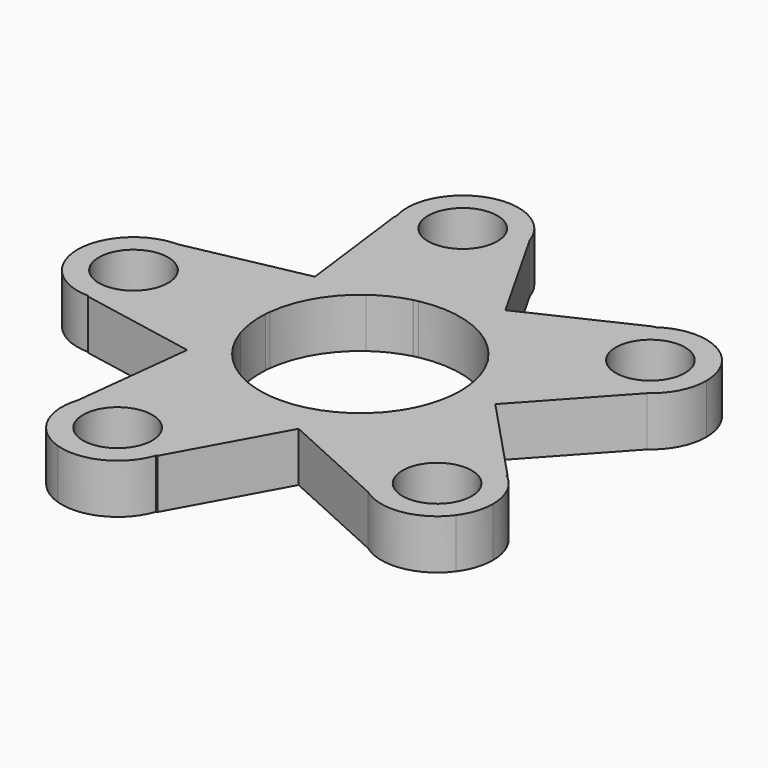
from build123d import *

# Parameters (mm, degrees)
F0_R     = 4.9
F1_DEPTH = 7


with BuildPart() as f1:
    # F0 (on Top) → F1 (new body)
    with BuildSketch(Plane.XY):
        with BuildLine():
            ThreePointArc((14.15, 0), (13.9757900194, -2.2135476803), (13.4574497056, -4.3725904704))
            ThreePointArc((13.4574497056, -4.3725904704), (12.400978844, -6.8145596858), (10.9060417797, -9.0155838801))
            Line((10.9060417797, -9.0155838801), (10.8695159641, -9.0820527185))
            Line((10.8695159641, -9.0820527185), (19.1268249694, -0.0593384625))
            Line((19.1268249694, -0.0593384625), (11.9964105728, 7.5310153528))
            Line((11.9964105728, 7.5310153528), (12.3111266381, 6.9755760265))
            ThreePointArc((12.3111266381, 6.9755760265), (13.6825608336, 3.6069417844), (14.15, 0))
        make_face()
        with BuildLine():
            Line((10.8695159641, -9.0820527185), (10.4385144096, -9.5530056485))
            ThreePointArc((10.4385144096, -9.5530056485), (5.702958446, -12.9498557893), (0, -14.15))
            ThreePointArc((0, -14.15), (-2.6489181852, -13.8998464901), (-5.2041775461, -13.1582307347))
            Line((-5.2041775461, -13.1582307347), (-5.2786802657, -13.1440326205))
            Line((-5.2786802657, -13.1440326205), (5.8540797326, -18.2090281165))
            Line((5.8540797326, -18.2090281165), (10.8695159641, -9.0820527185))
        make_face()
        with BuildLine():
            Line((19.1268249694, -0.0593384625), (10.8695159641, -9.0820527185))
            Line((10.8695159641, -9.0820527185), (5.8540797326, -18.2090281165))
            Line((5.8540797326, -18.2090281165), (21.2854911766, -25.2297515915))
            ThreePointArc((21.2854911766, -25.2297515915), (19.5794245005, -14.1382025948), (30.685746847, -12.531116229))
            Line((30.685746847, -12.531116229), (30.6560666179, -12.3322609697))
            Line((30.6560666179, -12.3322609697), (19.1268249694, -0.0593384625))
        make_face()
        with BuildLine():
            ThreePointArc((8.3171613199, 11.4475904704), (10.3131446045, 9.6882169859), (11.9444820487, 7.5862934684))
            Line((11.9444820487, 7.5862934684), (11.9964105728, 7.5310153528))
            Line((11.9964105728, 7.5310153528), (5.9669481954, 18.1723549299))
            Line((5.9669481954, 18.1723549299), (-3.4553264872, 13.7364761763))
            Line((-3.4553264872, 13.7364761763), (-2.8298212171, 13.8641484369))
            ThreePointArc((-2.8298212171, 13.8641484369), (2.9979432037, 13.8287684393), (8.3171613199, 11.4475904704))
        make_face()
        with BuildLine():
            Line((5.9669481954, 18.1723549299), (11.9964105728, 7.5310153528))
            Line((11.9964105728, 7.5310153528), (19.1268249694, -0.0593384625))
            Line((19.1268249694, -0.0593384625), (30.5724981628, 12.4472830804))
            ThreePointArc((30.5724981628, 12.4472830804), (19.4966046172, 14.2521943848), (21.4002170069, 25.311551623))
            Line((21.4002170069, 25.311551623), (21.2019227215, 25.3447737022))
            Line((21.2019227215, 25.3447737022), (5.9669481954, 18.1723549299))
        make_face()
        with BuildLine():
            Line((-2.2554315903, -32.9665301396), (5.8540797326, -18.2090281165))
            Line((5.8540797326, -18.2090281165), (-5.2786802657, -13.1440326205))
            Line((-5.2786802657, -13.1440326205), (-15.5088047218, -11.1944598156))
            Line((-15.5088047218, -11.1944598156), (-17.4173411484, -28.0401270917))
            ThreePointArc((-17.4173411484, -28.0401270917), (-8.6681623959, -22.6786234566), (-2.0039946697, -30.4813613473))
            ThreePointArc((-2.0039946697, -30.4813613473), (-2.1125879849, -31.7867279132), (-2.4353824853, -33.0562073695))
            Line((-2.4353824853, -33.0562073695), (-2.2554315903, -32.9665301396))
        make_face()
        with BuildLine():
            Line((-3.4553264872, 13.7364761763), (5.9669481954, 18.1723549299))
            Line((5.9669481954, 18.1723549299), (-2.390648191, 32.9225956028))
            ThreePointArc((-2.390648191, 32.9225956028), (-2.101256779, 31.7171936211), (-2.0039946697, 30.4813613473))
            ThreePointArc((-2.0039946697, 30.4813613473), (-8.7377949727, 22.6679127958), (-17.4596853701, 28.17451544))
            Line((-17.4596853701, 28.17451544), (-17.5525577492, 27.9961925549))
            Line((-17.5525577492, 27.9961925549), (-15.4390481756, 11.2904714648))
            Line((-15.4390481756, 11.2904714648), (-3.4553264872, 13.7364761763))
        make_face()
        with BuildLine():
            Line((32.3202289253, -23.4820208291), (21.2854911766, -25.2297515915))
            ThreePointArc((21.2854911766, -25.2297515915), (27.1648269435, -26.6412552267), (32.3202289253, -23.4820208291))
        make_face()
        with BuildLine():
            ThreePointArc((30.685746847, -12.531116229), (19.5794245005, -14.1382025948), (21.2854911766, -25.2297515915))
            Line((21.2854911766, -25.2297515915), (32.3202289253, -23.4820208291))
            Line((32.3202289253, -23.4820208291), (30.685746847, -12.531116229))
        make_face()
        with Locations((25.9289946697, -18.838517336)):
            Circle(F0_R, mode=Mode.SUBTRACT)
        with BuildLine():
            Line((-15.5088047218, -11.1944598156), (-5.2786802657, -13.1440326205))
            Line((-5.2786802657, -13.1440326205), (-5.8597700568, -12.8796581819))
            ThreePointArc((-5.8597700568, -12.8796581819), (-10.5537337042, -9.4255612513), (-13.4574497056, -4.3725904704))
            ThreePointArc((-13.4574497056, -4.3725904704), (-14.0381003158, -1.7760178835), (-14.1224003867, 0.8833500542))
            Line((-14.1224003867, 0.8833500542), (-14.1319197841, 0.9585938098))
            Line((-14.1319197841, 0.9585938098), (-15.5088047218, -11.1944598156))
        make_face()
        with BuildLine():
            Line((32.3202289253, 23.4820208291), (30.5724981628, 12.4472830804))
            ThreePointArc((30.5724981628, 12.4472830804), (32.9679462108, 15.251992388), (33.8289946697, 18.838517336))
            ThreePointArc((33.8289946697, 18.838517336), (33.4423411484, 21.2797515915), (32.3202289253, 23.4820208291))
        make_face()
        with BuildLine():
            ThreePointArc((21.4002170069, 25.311551623), (19.4966046172, 14.2521943848), (30.5724981628, 12.4472830804))
            Line((30.5724981628, 12.4472830804), (32.3202289253, 23.4820208291))
            Line((32.3202289253, 23.4820208291), (21.4002170069, 25.311551623))
        make_face()
        with Locations((25.9289946697, 18.838517336)):
            Circle(F0_R, mode=Mode.SUBTRACT)
        with BuildLine():
            Line((-3.5239458956, 13.7041710922), (-3.4553264872, 13.7364761763))
            Line((-3.4553264872, 13.7364761763), (-15.4390481756, 11.2904714648))
            Line((-15.4390481756, 11.2904714648), (-14.1319197841, 0.9585938098))
            Line((-14.1319197841, 0.9585938098), (-14.0600515027, 1.5929380844))
            ThreePointArc((-14.0600515027, 1.5929380844), (-12.2255248084, 7.1245381015), (-8.3171613199, 11.4475904704))
            ThreePointArc((-8.3171613199, 11.4475904704), (-6.0271049475, 12.8022070735), (-3.5239458956, 13.7041710922))
        make_face()
        with BuildLine():
            Line((-12.3452289253, 37.994707826), (-2.390648191, 32.9225956028))
            ThreePointArc((-2.390648191, 32.9225956028), (-6.3174697218, 37.5203128883), (-12.3452289253, 37.994707826))
        make_face()
        with BuildLine():
            ThreePointArc((-2.0039946697, 30.4813613473), (-2.101256779, 31.7171936211), (-2.390648191, 32.9225956028))
            Line((-2.390648191, 32.9225956028), (-12.3452289253, 37.994707826))
            Line((-12.3452289253, 37.994707826), (-17.4596853701, 28.17451544))
            ThreePointArc((-17.4596853701, 28.17451544), (-8.7377949727, 22.6679127958), (-2.0039946697, 30.4813613473))
        make_face()
        with Locations((-9.9039946697, 30.4813613473)):
            Circle(F0_R, mode=Mode.SUBTRACT)
        with BuildLine():
            Line((-12.3452289253, -37.994707826), (-2.4353824853, -33.0562073695))
            ThreePointArc((-2.4353824853, -33.0562073695), (-2.1125879849, -31.7867279132), (-2.0039946697, -30.4813613473))
            ThreePointArc((-2.0039946697, -30.4813613473), (-8.6681623959, -22.6786234566), (-17.4173411484, -28.0401270917))
            Line((-17.4173411484, -28.0401270917), (-12.3452289253, -37.994707826))
        make_face()
        with Locations((-9.9039946697, -30.4813613473)):
            Circle(F0_R, mode=Mode.SUBTRACT)
        with BuildLine():
            ThreePointArc((-12.3452289253, -37.994707826), (-6.3803844615, -37.5520169817), (-2.4353824853, -33.0562073695))
            Line((-2.4353824853, -33.0562073695), (-12.3452289253, -37.994707826))
        make_face()
        with BuildLine():
            Line((30.685746847, -12.531116229), (32.3202289253, -23.4820208291))
            ThreePointArc((32.3202289253, -23.4820208291), (33.4423411484, -21.2797515915), (33.8289946697, -18.838517336))
            ThreePointArc((33.8289946697, -18.838517336), (32.9996503041, -15.3149071277), (30.685746847, -12.531116229))
        make_face()
        with BuildLine():
            Line((-32.05, -8.0421751477), (-15.5088047218, -11.1944598156))
            Line((-15.5088047218, -11.1944598156), (-14.1319197841, 0.9585938098))
            Line((-14.1319197841, 0.9585938098), (-15.4390481756, 11.2904714648))
            Line((-15.4390481756, 11.2904714648), (-32.05, 7.9))
            ThreePointArc((-32.05, 7.9), (-26.4638564286, 5.5861435714), (-24.15, 0))
            ThreePointArc((-24.15, 0), (-26.5138947982, -5.6357376797), (-32.1908959985, -7.8987434645))
            Line((-32.1908959985, -7.8987434645), (-32.05, -8.0421751477))
        make_face()
        with BuildLine():
            ThreePointArc((32.3202289253, 23.4820208291), (27.2343612356, 26.6299240208), (21.4002170069, 25.311551623))
            Line((21.4002170069, 25.311551623), (32.3202289253, 23.4820208291))
        make_face()
        with BuildLine():
            Line((-17.4596853701, 28.17451544), (-12.3452289253, 37.994707826))
            ThreePointArc((-12.3452289253, 37.994707826), (-16.9106823157, 34.1305158016), (-17.4596853701, 28.17451544))
        make_face()
        with BuildLine():
            ThreePointArc((-17.4173411484, -28.0401270917), (-16.9429462108, -34.0678862952), (-12.3452289253, -37.994707826))
            Line((-12.3452289253, -37.994707826), (-17.4173411484, -28.0401270917))
        make_face()
        with BuildLine():
            Line((-39.95, 0), (-32.05, 7.9))
            ThreePointArc((-32.05, 7.9), (-37.6361435714, 5.5861435714), (-39.95, 0))
        make_face()
        with BuildLine():
            ThreePointArc((-24.15, 0), (-26.4638564286, 5.5861435714), (-32.05, 7.9))
            Line((-32.05, 7.9), (-39.95, 0))
            Line((-39.95, 0), (-32.1908959985, -7.8987434645))
            ThreePointArc((-32.1908959985, -7.8987434645), (-26.5138947982, -5.6357376797), (-24.15, 0))
        make_face()
        with Locations((-32.05, 0)):
            Circle(F0_R, mode=Mode.SUBTRACT)
        with BuildLine():
            ThreePointArc((-39.95, 0), (-37.6857376797, -5.5361052018), (-32.1908959985, -7.8987434645))
            Line((-32.1908959985, -7.8987434645), (-39.95, 0))
        make_face()
    extrude(amount=F1_DEPTH)


solid = f1.part
